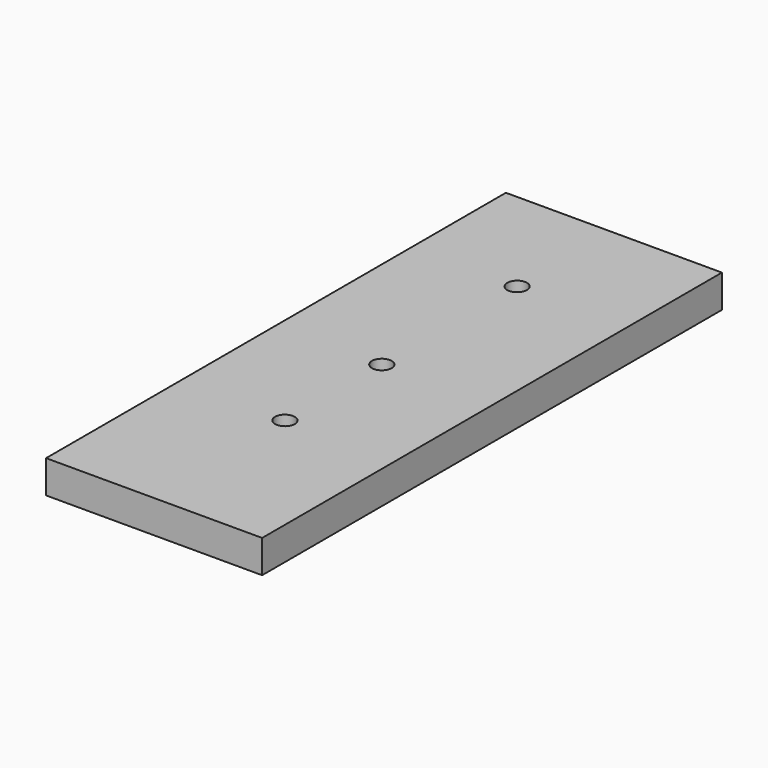
from build123d import *

# Parameters (mm, degrees)
F0_W     = 33.421052
F0_H     = 88.9
F0_R     = 1.524
F1_DEPTH = 5.08


with BuildPart() as f1:
    # F0 (on Top) → F1 (new body)
    with BuildSketch(Plane.XY):
        with Locations((0.343325, 0)):
            Rectangle(F0_W, F0_H)
        with Locations((0, -18.72742)):
            Circle(F0_R, mode=Mode.SUBTRACT)
        Circle(F0_R, mode=Mode.SUBTRACT)
        with Locations((0, 26.162)):
            Circle(F0_R, mode=Mode.SUBTRACT)
    extrude(amount=F1_DEPTH)


solid = f1.part
